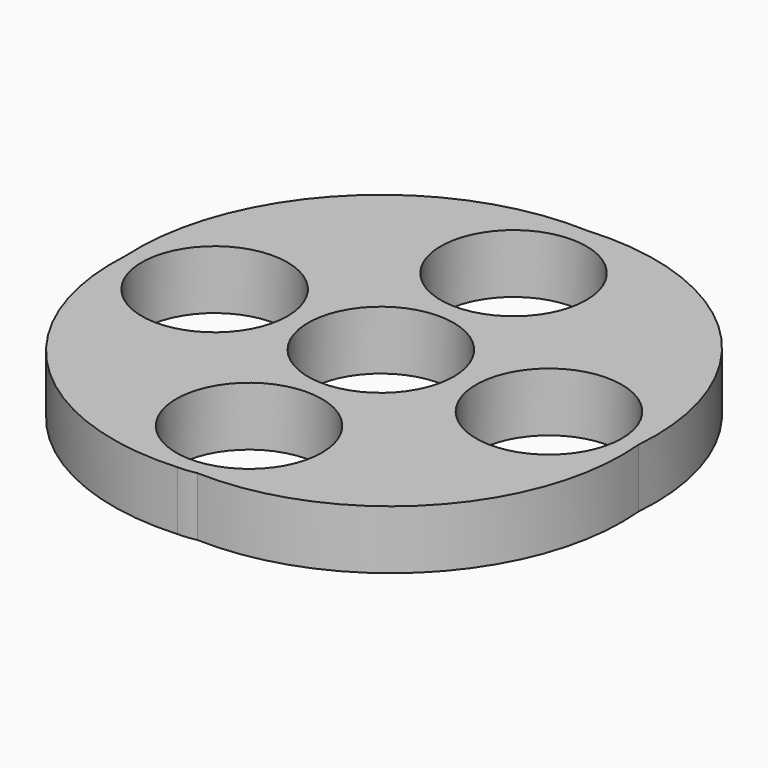
from build123d import *

# Parameters (mm, degrees)
F0_R     = 10.9982
F1_DEPTH = 8.89


with BuildPart() as f1:
    # F0 (on Top) → F1 (new body)
    with BuildSketch(Plane.XY):
        with BuildLine():
            ThreePointArc((38.8529947684, 0), (28.4453239469, 28.4684513244), (0, 38.9391665957))
            ThreePointArc((0, 38.9391665957), (-27.8957339054, 28.0256688183), (-38.4710963646, 0))
            ThreePointArc((-38.4710963646, 0), (-27.9199689316, -27.9141662733), (0.0231951649, -38.3882556901))
            ThreePointArc((0.0231951649, -38.3882556901), (-9.5721699853, -15.3070070583), (13.5255, -24.8627755791))
            ThreePointArc((13.5255, -24.8627755791), (10.5110469105, -33.3749458719), (2.8113610633, -38.0928700316))
            ThreePointArc((2.8113610633, -38.0928700316), (29.4450372623, -27.1955065208), (38.8529947684, 0))
        make_face()
        with BuildLine():
            ThreePointArc((-11.4212829144, -0.1791534288), (-25.0363615935, -13.7043567881), (-38.4710963646, 0))
            ThreePointArc((-38.4710963646, 0), (-24.8572042354, 13.3460499305), (-11.4212829144, -0.1791534288))
        make_face(mode=Mode.SUBTRACT)
        Circle(F0_R, mode=Mode.SUBTRACT)
        with BuildLine():
            ThreePointArc((38.8531280306, 0.0600404714), (38.853094715, 0.0300201617), (38.8529947684, 0))
            ThreePointArc((38.8529947684, 0), (11.8021613462, 0.090060781), (38.8531280306, 0.0600404714))
        make_face(mode=Mode.SUBTRACT)
        with BuildLine():
            ThreePointArc((0, 38.9391665957), (9.8292581555, 34.8677545596), (13.9006701916, 25.0384964041))
            ThreePointArc((13.9006701916, 25.0384964041), (-9.8292581555, 15.2092382486), (0, 38.9391665957))
        make_face(mode=Mode.SUBTRACT)
        with BuildLine():
            ThreePointArc((0, 38.9391665957), (-9.8292581555, 15.2092382486), (13.9006701916, 25.0384964041))
            ThreePointArc((13.9006701916, 25.0384964041), (9.8292581555, 34.8677545596), (0, 38.9391665957))
        make_face()
        with Locations((0, 25.0384964041)):
            Circle(F0_R, mode=Mode.SUBTRACT)
        with BuildLine():
            ThreePointArc((-11.4212829144, -0.1791534288), (-24.8572042354, 13.3460499305), (-38.4710963646, 0))
            ThreePointArc((-38.4710963646, 0), (-25.0363615935, -13.7043567881), (-11.4212829144, -0.1791534288))
        make_face()
        with Locations((-24.9467829144, -0.1791534288)):
            Circle(F0_R, mode=Mode.SUBTRACT)
        with BuildLine():
            ThreePointArc((38.8531280306, 0.0600404714), (11.8021613462, 0.090060781), (38.8529947684, 0))
            ThreePointArc((38.8529947684, 0), (38.853094715, 0.0300201617), (38.8531280306, 0.0600404714))
        make_face()
        with Locations((25.3276280306, 0.0600404714)):
            Circle(F0_R, mode=Mode.SUBTRACT)
        with BuildLine():
            ThreePointArc((0.0231951649, -38.3882556901), (1.4201424448, -38.2675994791), (2.8113610633, -38.0928700316))
            ThreePointArc((2.8113610633, -38.0928700316), (10.5110469105, -33.3749458719), (13.5255, -24.8627755791))
            ThreePointArc((13.5255, -24.8627755791), (-9.5721699853, -15.3070070583), (0.0231951649, -38.3882556901))
        make_face()
        with Locations((0, -24.8627755791)):
            Circle(F0_R, mode=Mode.SUBTRACT)
        with BuildLine():
            ThreePointArc((0.0231951649, -38.3882556901), (1.4249527798, -38.3130045669), (2.8113610633, -38.0928700316))
            ThreePointArc((2.8113610633, -38.0928700316), (1.4201424448, -38.2675994791), (0.0231951649, -38.3882556901))
        make_face()
    extrude(amount=F1_DEPTH)


solid = f1.part
